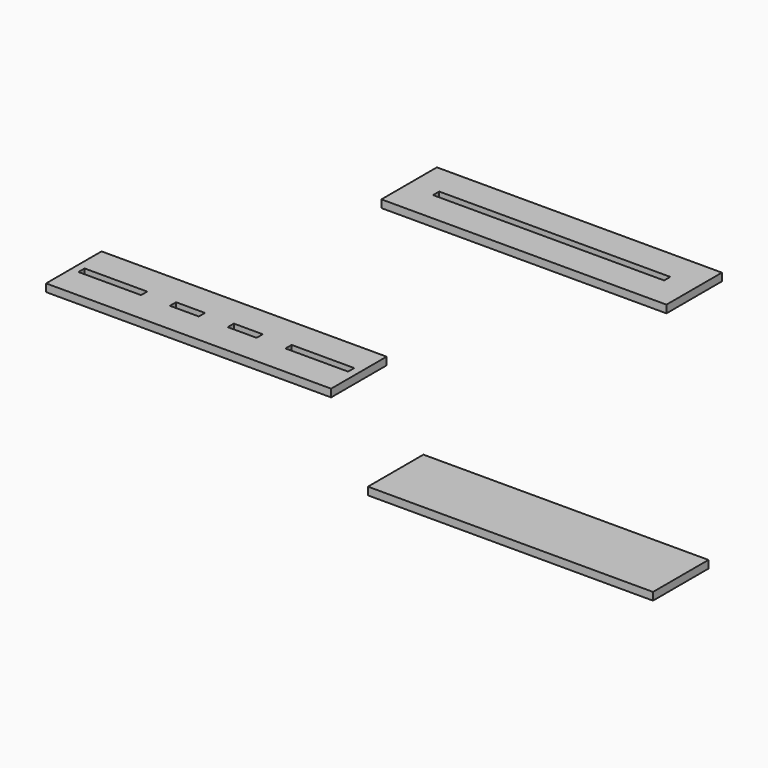
from build123d import *

# Parameters (mm, degrees)
F0_W     = 32.5
F0_H     = 4
F0_W_2   = 15
F1_DEPTH = 4
F2_W     = 120
F2_H     = 4
F3_DEPTH = 4
F4_W     = 148
F4_H     = 36
F5_DEPTH = 4


with BuildPart() as f1:
    # F0 (on Top) → F1 (new body)
    with BuildSketch(Plane.XY):
        Polygon((6.67144, -30.356686), (6.67144, -14.356686), (-141.32856, -14.356686), (-141.32856, -30.356686), (-141.32856, -34.356686), (-141.32856, -50.356686), (6.67144, -50.356686), (6.67144, -34.356686), align=None)
        with Locations((-121.07856, -32.356686)):
            Rectangle(F0_W, F0_H, mode=Mode.SUBTRACT)
        with Locations((-82.32856, -32.356686)):
            Rectangle(F0_W_2, F0_H, mode=Mode.SUBTRACT)
        with Locations((-52.32856, -32.356686)):
            Rectangle(F0_W_2, F0_H, mode=Mode.SUBTRACT)
        with Locations((-13.57856, -32.356686)):
            Rectangle(F0_W, F0_H, mode=Mode.SUBTRACT)
    extrude(amount=F1_DEPTH)


with BuildPart() as f3:
    # F2 (on Top) → F3 (new body)
    with BuildSketch(Plane.XY):
        Polygon((66.743938, 112.19028), (66.743938, 128.19028), (-81.256062, 128.19028), (-81.256062, 112.19028), (-81.256062, 108.19028), (-81.256062, 92.19028), (66.743938, 92.19028), (66.743938, 108.19028), align=None)
        with Locations((-7.256062, 110.19028)):
            Rectangle(F2_W, F2_H, mode=Mode.SUBTRACT)
    extrude(amount=F3_DEPTH)


with BuildPart() as f5:
    # F4 (on Top) → F5 (new body)
    with BuildSketch(Plane.XY):
        with Locations((146.060839, -90.192072)):
            Rectangle(F4_W, F4_H)
    extrude(amount=F5_DEPTH)


solid = Compound([f1.part, f3.part, f5.part])
